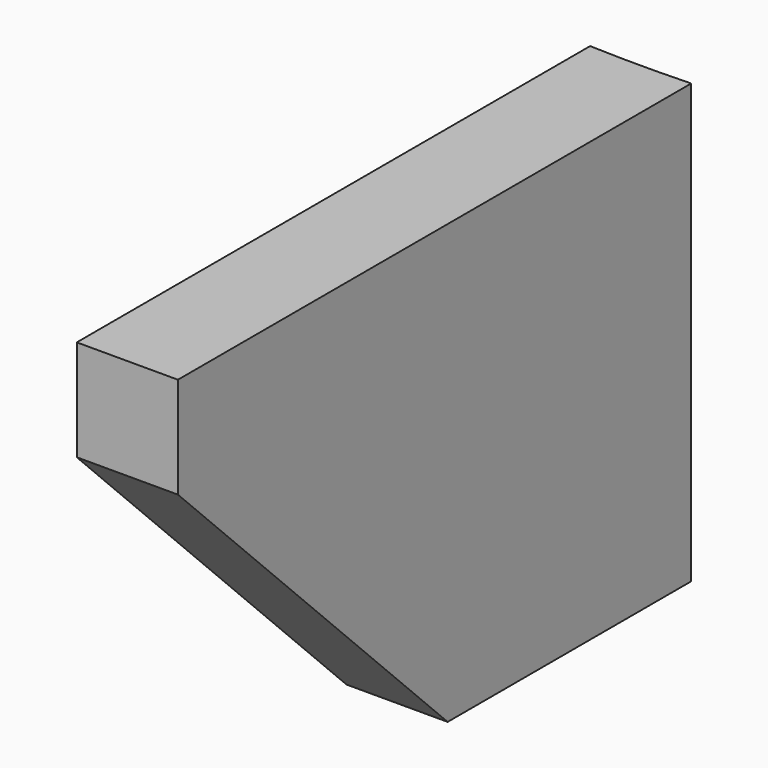
from build123d import *

# Parameters (mm, degrees)
CYLINDER969_R     = 74
CYLINDER969_DEPTH = 40
BOX480_W          = 50
BOX480_H          = 6
BOX480_DEPTH      = 26
CHAMFER011_SIZE   = 20


with BuildPart() as obj1:
    # Cylinder969 → Cylinder969 (new body)
    with BuildSketch(Plane.XY.offset(42)):
        Circle(CYLINDER969_R)
    extrude(amount=CYLINDER969_DEPTH)


with BuildPart() as chamfer011:
    # Box480 → Box480 (new body)
    with BuildSketch(Plane(origin=(3, -112, 56), x_dir=(0, 1, 0), z_dir=(0, 0, 1))):
        with Locations((25, 3)):
            Rectangle(BOX480_W, BOX480_H)
    extrude(amount=BOX480_DEPTH)

    # Cut449: cut obj1
    add(obj1.part, mode=Mode.SUBTRACT)

    # Chamfer011
    chamfer011_edges = [chamfer011.edges().sort_by_distance(p)[0] for p in [
        (0, -112, 56),
    ]]
    chamfer(chamfer011_edges, length=CHAMFER011_SIZE)


solid = chamfer011.part
